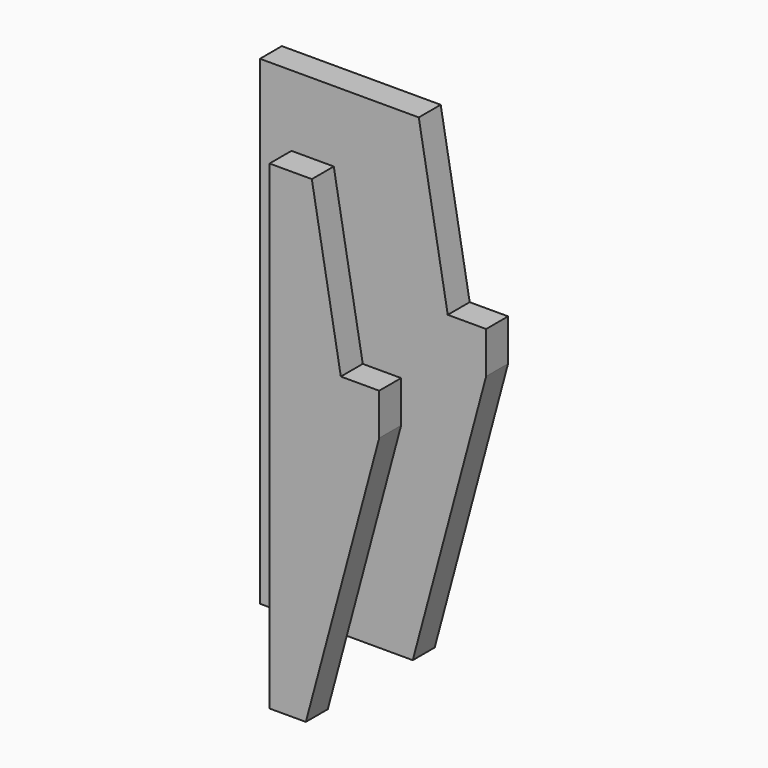
from build123d import *

# Parameters (mm, degrees)
EXTRUDE021_DEPTH      = 20
EXTRUDE019_DEPTH      = 14
SKETCH022_W           = 16.5
SKETCH022_H           = 2
SKETCH022_W_2         = 8
EXTRUDE018_DEPTH      = 20
EXTRUDE018_DEPTH_BACK = 15


with BuildPart() as extrude021:
    # Sketch025 → Extrude021 (new body, symmetric)
    with BuildSketch(Plane.XZ):
        Polygon((12.911408, 55.989248), (15.2, 43.01), (22, 43.01), (22, 55.989248), align=None)
    extrude(amount=EXTRUDE021_DEPTH, both=True)


with BuildPart() as compound005:
    # Sketch023 → Extrude019 (new body, symmetric)
    with BuildSketch(Plane.XZ):
        Polygon((19.079246, 44), (12, 17.579893), (23, 17.579893), (23, 44), align=None)
    extrude(amount=EXTRUDE019_DEPTH, both=True)

    # Compound005: union Extrude021
    add(extrude021.part)


with BuildPart() as cut002:
    # Sketch022 → Extrude018 (new body, two sides)
    with BuildSketch(Plane.XY.offset(35)) as extrude018_sk:
        with Locations((9.75, 8.75)):
            Rectangle(SKETCH022_W, SKETCH022_H)
        with Locations((14, -1)):
            Rectangle(SKETCH022_W_2, SKETCH022_H)
    extrude(amount=EXTRUDE018_DEPTH)
    extrude(extrude018_sk.sketch, amount=-EXTRUDE018_DEPTH_BACK)

    # Cut002: cut Compound005
    add(compound005.part, mode=Mode.SUBTRACT)


solid = cut002.part
